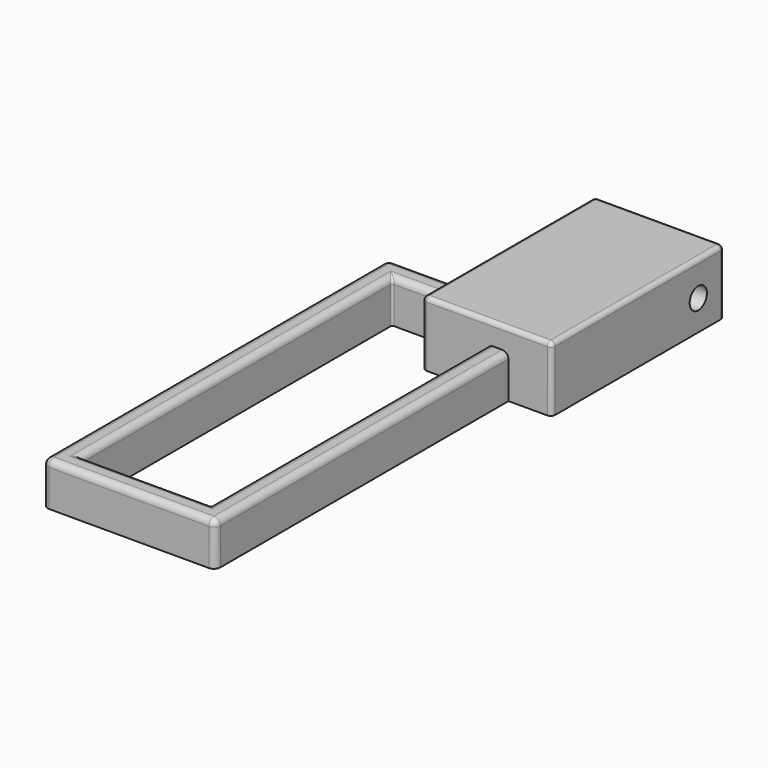
from build123d import *

# Parameters (mm, degrees)
F0_W     = 12
F0_H     = 20
F1_DEPTH = 6
F2_T     = -1.6
F3_W     = 16
F3_H     = 40
F3_W_2   = 12
F3_H_2   = 36
F4_DEPTH = 4
F5_R     = 0.4
F6_R     = 0.6
F7_R     = 0.2
F8_R     = 1
F9_DEPTH = 25


with BuildPart() as f1:
    # F0 (on Top) → F1 (new body)
    with BuildSketch(Plane.XY):
        Rectangle(F0_W, F0_H)
    extrude(amount=F1_DEPTH)

    # F2
    f2_openings = [f1.faces().sort_by_distance(p)[0] for p in [
        (0, 0, 0),
    ]]
    offset(amount=F2_T, openings=f2_openings)

    # F5
    f5_edges = [f1.edges().sort_by_distance(p)[0] for p in [
        (0, -10, 6),
        (6, 0, 6),
        (0, 10, 6),
        (-6, 0, 6),
        (-6, 10, 3),
        (-6, -10, 3),
        (6, -10, 3),
        (6, 10, 3),
    ]]
    fillet(f5_edges, radius=F5_R)

    # F8 (on face) → F9 (cut)
    with BuildSketch(Plane(origin=(-6, 0, 0), x_dir=(0, -1, 0), z_dir=(-1, 0, 0))):
        with Locations((-7, 2.8)):
            Circle(F8_R)
    extrude(amount=-F9_DEPTH, mode=Mode.SUBTRACT)


with BuildPart() as f4:
    # F3 (on Top) → F4 (new body)
    with BuildSketch(Plane.XY):
        with Locations((-6, -24)):
            Rectangle(F3_W, F3_H)
        with Locations((-6, -24)):
            Rectangle(F3_W_2, F3_H_2, mode=Mode.SUBTRACT)
    extrude(amount=F4_DEPTH)

    # F6
    f6_edges = [f4.edges().sort_by_distance(p)[0] for p in [
        (2, -24, 4),
        (-6, -4, 4),
        (-14, -24, 4),
        (-6, -44, 4),
        (-6, -6, 4),
        (0, -24, 4),
        (-6, -42, 4),
        (-12, -24, 4),
        (-14, -4, 2),
        (2, -4, 2),
        (2, -44, 2),
        (-14, -44, 2),
    ]]
    fillet(f6_edges, radius=F6_R)

    # F7
    f7_edges = [f4.edges().sort_by_distance(p)[0] for p in [
        (-12, -6, 1.7),
        (0, -6, 1.7),
        (-12, -42, 1.7),
        (0, -42, 1.7),
    ]]
    fillet(f7_edges, radius=F7_R)


solid = Compound([f1.part, f4.part])
